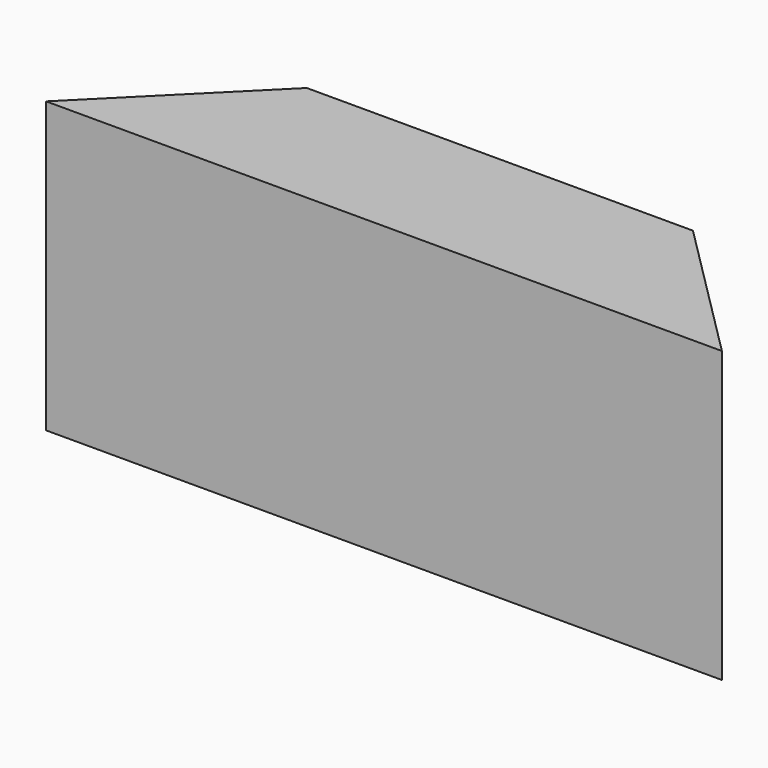
from build123d import *

# Parameters (mm, degrees)
F1_DEPTH = 25.4
F2_DEPTH = 12.7


with BuildPart() as f1:
    # F0 (on Top) → F1 (new body)
    with BuildSketch(Plane.XY):
        Polygon((25.4, 19.05), (-25.4, 19.05), (-44.450002, 0), (44.449998, 0), align=None)
    extrude(amount=F1_DEPTH)

    # F1_face (on face) → F2 (join)
    with BuildSketch(Plane(origin=(-1e-06, 8.659091, 25.4), x_dir=(1, 0, 0), z_dir=(0, 0, 1))):
        Polygon((44.449999, -8.659091), (25.400001, 10.390909), (-25.399999, 10.390909), (-44.450001, -8.659091), align=None)
    extrude(amount=F2_DEPTH)


solid = f1.part
